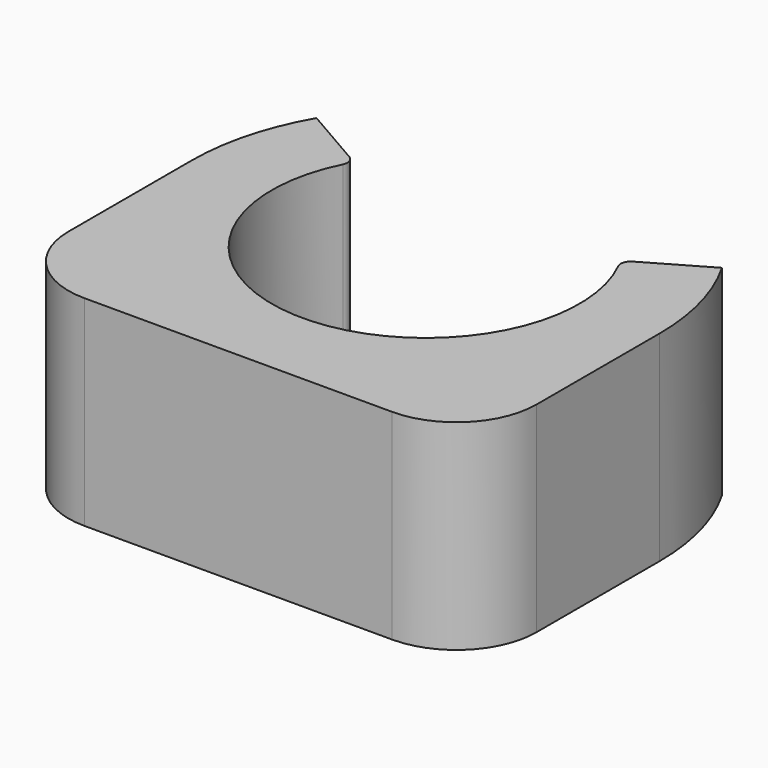
from build123d import *

# Parameters (mm, degrees)
F1_DEPTH = 5


with BuildPart() as f1:
    # F0 (on Top) → F1 (new body)
    with BuildSketch(Plane.XY):
        with BuildLine():
            ThreePointArc((3.434505, 1.711893), (0, -3.8375), (-3.434505, 1.711893))
            ThreePointArc((-3.434505, 1.711893), (-3.418863, 1.89548), (-3.533252, 2.039924))
            Line((-3.533252, 2.039924), (-5.055423, 2.91875))
            ThreePointArc((-5.055423, 2.91875), (-5.638592, 1.510856), (-5.8375, 0))
            ThreePointArc((-5.8375, 0), (-4.127736, -4.127736), (0, -5.8375))
            ThreePointArc((0, -5.8375), (4.127736, -4.127736), (5.8375, 0))
            ThreePointArc((5.8375, 0), (5.638592, 1.510856), (5.055423, 2.91875))
            Line((5.055423, 2.91875), (3.533252, 2.039924))
            ThreePointArc((3.533252, 2.039924), (3.418863, 1.89548), (3.434505, 1.711893))
        make_face()
        with BuildLine():
            ThreePointArc((0, -5.8375), (-4.127736, -4.127736), (-5.8375, 0))
            Line((-5.8375, 0), (-5.8375, -3.8375))
            ThreePointArc((-5.8375, -3.8375), (-5.251714, -5.251714), (-3.8375, -5.8375))
            Line((-3.8375, -5.8375), (0, -5.8375))
        make_face()
        with BuildLine():
            Line((5.8375, -3.8375), (5.8375, 0))
            ThreePointArc((5.8375, 0), (4.127736, -4.127736), (0, -5.8375))
            Line((0, -5.8375), (3.8375, -5.8375))
            ThreePointArc((3.8375, -5.8375), (5.251714, -5.251714), (5.8375, -3.8375))
        make_face()
    extrude(amount=F1_DEPTH)


solid = f1.part
